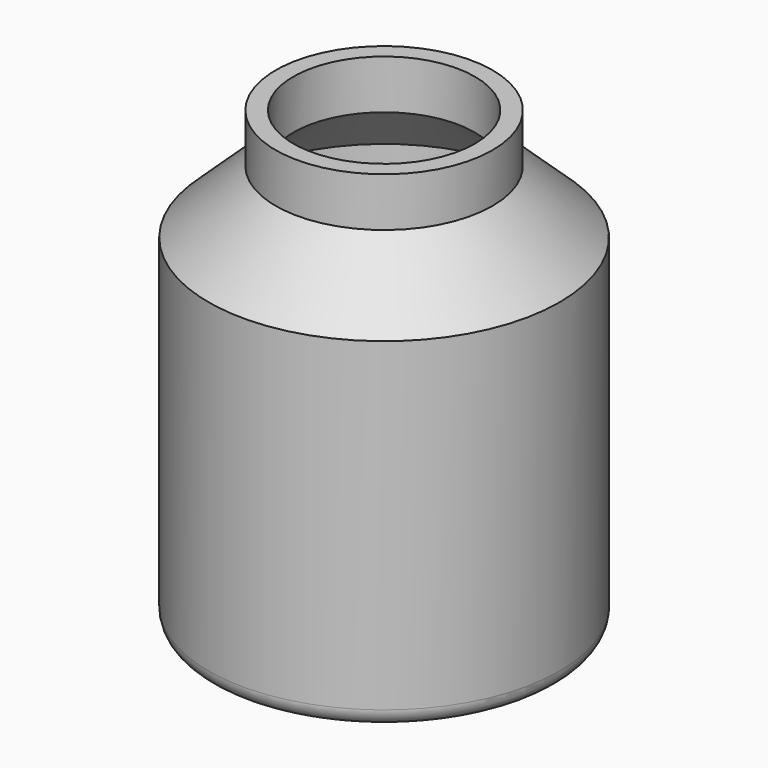
from build123d import *


with BuildPart() as f1:
    # F0 (on Front) → F1 (revolve)
    with BuildSketch(Plane.XZ):
        with BuildLine():
            Line((0, 4.193819), (0, 0))
            Line((0, 0), (30.459946, 0))
            Line((30.459946, 0), (49.550053, -11.931316))
            Line((49.550053, -11.931316), (57.517636, -11.931316))
            ThreePointArc((57.517636, -11.931316), (62.007764, -10.071444), (63.867636, -5.581316))
            Line((63.867636, -5.581316), (63.867636, 73.131949))
            Line((63.867636, 73.131949), (63.867636, 112.469681))
            Line((63.867636, 112.469681), (39.425094, 135.337606))
            Line((39.425094, 135.337606), (39.425094, 153.195813))
            Line((39.425094, 153.195813), (33.017382, 153.195813))
            Line((33.017382, 153.195813), (33.017382, 135.337606))
            Line((33.017382, 135.337606), (57.459924, 112.469681))
            Line((57.459924, 112.469681), (57.459924, -6.803995))
            Line((57.459924, -6.803995), (50.88336, -6.803995))
            Line((50.88336, -6.803995), (39.425094, 0))
            Line((39.425094, 0), (34.942501, 4.193819))
            Line((34.942501, 4.193819), (6.416916, 4.193819))
            Line((6.416916, 4.193819), (0, 4.193819))
        make_face()
    revolve(axis=Axis((0, 0, 36.565974), (0, 0, 1)))


solid = f1.part
